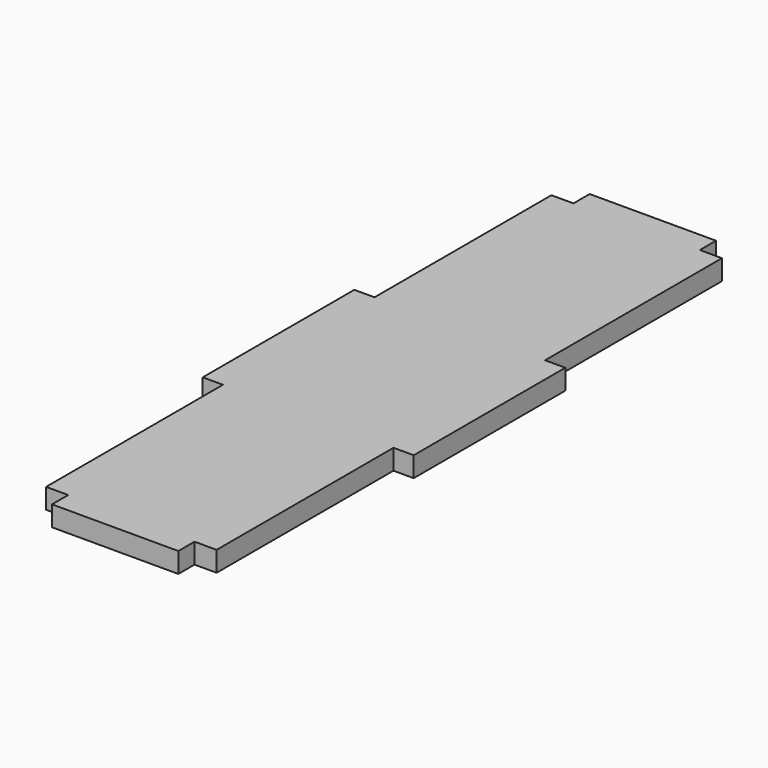
from build123d import *

# Parameters (mm, degrees)
F0_W     = 4.064
F0_H     = 38.1
F0_W_2   = 25.4
F0_H_2   = 4.064
F1_DEPTH = 4.064


with BuildPart() as f1:
    # F0 (on Top) → F1 (new body)
    with BuildSketch(Plane.XY):
        with Locations((19.177, 0)):
            Rectangle(F0_W, F0_H)
        with Locations((0, 61.468)):
            Rectangle(F0_W_2, F0_H_2)
        with Locations((0, -65.532)):
            Rectangle(F0_W_2, F0_H_2)
        with Locations((0, -61.468)):
            Rectangle(F0_W_2, F0_H_2)
        Polygon((17.145, 19.05), (17.145, 63.5), (12.7, 63.5), (12.7, 59.436), (-12.7, 59.436), (-12.7, 63.5), (-17.145, 63.5), (-17.145, 19.05), (-13.081, 19.05), (-13.081, -19.05), (-17.145, -19.05), (-17.145, -63.5), (-12.7, -63.5), (-12.7, -59.436), (12.7, -59.436), (12.7, -63.5), (17.145, -63.5), (17.145, -19.05), (13.081, -19.05), (13.081, 19.05), align=None)
        with Locations((15.113, 0)):
            Rectangle(F0_W, F0_H)
        with Locations((-15.113, 0)):
            Rectangle(F0_W, F0_H)
        with Locations((0, 65.532)):
            Rectangle(F0_W_2, F0_H_2)
        with Locations((-19.177, 0)):
            Rectangle(F0_W, F0_H)
    extrude(amount=F1_DEPTH)


solid = f1.part
